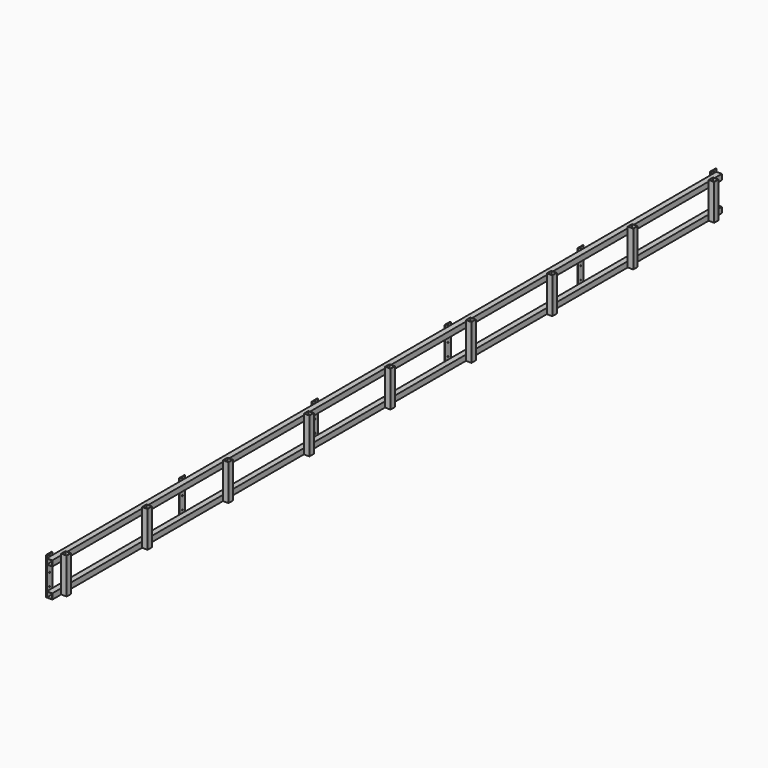
from build123d import *

# Parameters (mm, degrees)
F0_W          = 40
F0_H          = 40
F1_DEPTH      = 3025
F2_T          = -2
F2_2_T        = -2
F3_W          = 50
F3_H          = 270
F3_R          = 4
F4_DEPTH      = 5
F5_W          = 40
F5_H          = 40
F5_W_2        = 36
F5_H_2        = 36
F6_DEPTH      = 135
F6_DEPTH_BACK = 125


with BuildPart() as f1:
    # F0 (on Front) → F1 (new body)
    with BuildSketch(Plane.XZ):
        with Locations((20, 105)):
            Rectangle(F0_W, F0_H)
    extrude(amount=-F1_DEPTH)

    # F2
    f2_openings = [f1.faces().sort_by_distance(p)[0] for p in [
        (20, 0, 105),
        (20, 3025, 105),
    ]]
    offset(amount=F2_T, openings=f2_openings)


with BuildPart() as f1b:
    # F0 (on Front) → F1, piece 2 (new body)
    with BuildSketch(Plane.XZ):
        with Locations((20, -105)):
            Rectangle(F0_W, F0_H)
    extrude(amount=-F1_DEPTH)

    # F2#2
    f2_2_openings = [f1b.faces().sort_by_distance(p)[0] for p in [
        (20, 0, -105),
        (20, 3025, -105),
    ]]
    offset(amount=F2_2_T, openings=f2_2_openings)


with BuildPart() as f4:
    # F3 (on Right) → F4 (new body)
    with BuildSketch(Plane.YZ):
        with Locations((600, 10)):
            Rectangle(F3_W, F3_H)
        with Locations((600, -65)):
            Circle(F3_R, mode=Mode.SUBTRACT)
        with Locations((600, 25)):
            Circle(F3_R, mode=Mode.SUBTRACT)
        with Locations((600, 135)):
            Circle(F3_R, mode=Mode.SUBTRACT)
    extrude(amount=-F4_DEPTH)


with BuildPart() as f4b:
    # F3 (on Right) → F4, piece 2 (new body)
    with BuildSketch(Plane.YZ):
        with Locations((1800, 10)):
            Rectangle(F3_W, F3_H)
        with Locations((1800, -65)):
            Circle(F3_R, mode=Mode.SUBTRACT)
        with Locations((1800, 25)):
            Circle(F3_R, mode=Mode.SUBTRACT)
        with Locations((1800, 135)):
            Circle(F3_R, mode=Mode.SUBTRACT)
    extrude(amount=-F4_DEPTH)


with BuildPart() as f4c:
    # F3 (on Right) → F4, piece 3 (new body)
    with BuildSketch(Plane.YZ):
        with Locations((3000, 10)):
            Rectangle(F3_W, F3_H)
        with Locations((3000, -65)):
            Circle(F3_R, mode=Mode.SUBTRACT)
        with Locations((3000, 25)):
            Circle(F3_R, mode=Mode.SUBTRACT)
        with Locations((3000, 135)):
            Circle(F3_R, mode=Mode.SUBTRACT)
    extrude(amount=-F4_DEPTH)


with BuildPart() as f6:
    # F5 (on Top) → F6 (new body, two sides)
    with BuildSketch(Plane.XY) as f6_sk:
        with Locations((60, 2925)):
            Rectangle(F5_W, F5_H)
        with Locations((60, 2925)):
            Rectangle(F5_W_2, F5_H_2, mode=Mode.SUBTRACT)
    extrude(amount=F6_DEPTH)
    extrude(f6_sk.sketch, amount=-F6_DEPTH_BACK)


with BuildPart() as f6b:
    # F5 (on Top) → F6, piece 2 (new body, two sides)
    with BuildSketch(Plane.XY) as f6_2_sk:
        with Locations((60, 2194)):
            Rectangle(F5_W, F5_H)
        with Locations((60, 2194)):
            Rectangle(F5_W_2, F5_H_2, mode=Mode.SUBTRACT)
    extrude(amount=F6_DEPTH)
    extrude(f6_2_sk.sketch, amount=-F6_DEPTH_BACK)


with BuildPart() as f6c:
    # F5 (on Top) → F6, piece 3 (new body, two sides)
    with BuildSketch(Plane.XY) as f6_3_sk:
        with Locations((60, 1463)):
            Rectangle(F5_W, F5_H)
        with Locations((60, 1463)):
            Rectangle(F5_W_2, F5_H_2, mode=Mode.SUBTRACT)
    extrude(amount=F6_DEPTH)
    extrude(f6_3_sk.sketch, amount=-F6_DEPTH_BACK)


with BuildPart() as f6d:
    # F5 (on Top) → F6, piece 4 (new body, two sides)
    with BuildSketch(Plane.XY) as f6_4_sk:
        with Locations((60, 732)):
            Rectangle(F5_W, F5_H)
        with Locations((60, 732)):
            Rectangle(F5_W_2, F5_H_2, mode=Mode.SUBTRACT)
    extrude(amount=F6_DEPTH)
    extrude(f6_4_sk.sketch, amount=-F6_DEPTH_BACK)


with BuildPart() as f6e:
    # F5 (on Top) → F6, piece 5 (new body, two sides)
    with BuildSketch(Plane.XY) as f6_5_sk:
        with Locations((60, 1)):
            Rectangle(F5_W, F5_H)
        with Locations((60, 1)):
            Rectangle(F5_W_2, F5_H_2, mode=Mode.SUBTRACT)
    extrude(amount=F6_DEPTH)
    extrude(f6_5_sk.sketch, amount=-F6_DEPTH_BACK)


with BuildPart() as f7_1:
    # F7: instance of F1
    add(f1.part.mirror(Plane.XZ))


with BuildPart() as f7_2:
    # F7: instance of F1b
    add(f1b.part.mirror(Plane.XZ))


with BuildPart() as f7_3:
    # F7: instance of F4
    add(f4.part.mirror(Plane.XZ))


with BuildPart() as f7_4:
    # F7: instance of F6d
    add(f6d.part.mirror(Plane.XZ))


with BuildPart() as f7_5:
    # F7: instance of F4c
    add(f4c.part.mirror(Plane.XZ))


with BuildPart() as f7_6:
    # F7: instance of F6
    add(f6.part.mirror(Plane.XZ))


with BuildPart() as f7_7:
    # F7: instance of F6b
    add(f6b.part.mirror(Plane.XZ))


with BuildPart() as f7_8:
    # F7: instance of F4b
    add(f4b.part.mirror(Plane.XZ))


with BuildPart() as f7_9:
    # F7: instance of F6c
    add(f6c.part.mirror(Plane.XZ))


solid = Compound([f1.part, f1b.part, f4.part, f4b.part, f4c.part, f6.part, f6b.part, f6c.part, f6d.part, f6e.part, f7_1.part, f7_2.part, f7_3.part, f7_4.part, f7_5.part, f7_6.part, f7_7.part, f7_8.part, f7_9.part])
